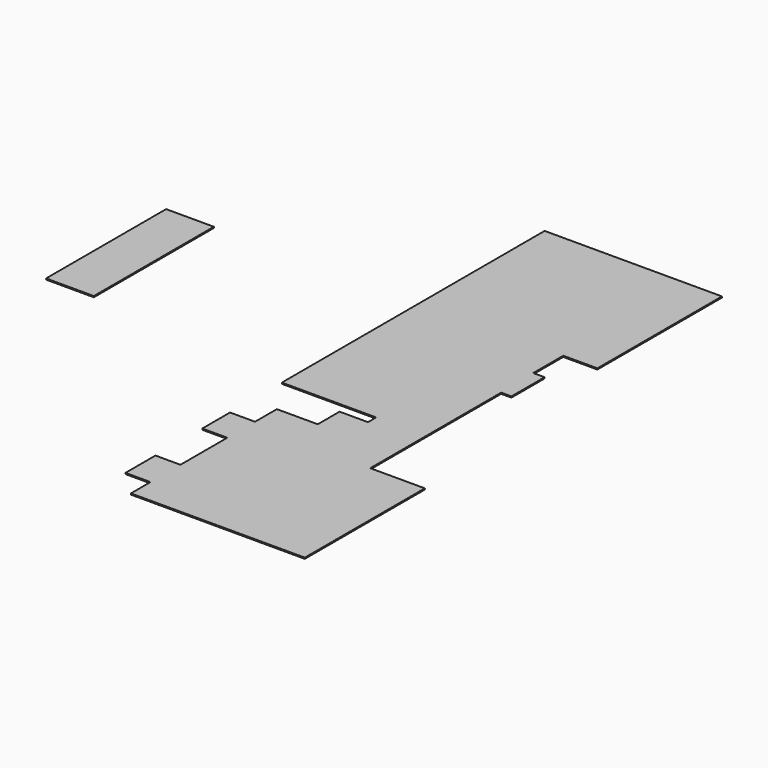
from build123d import *

# Parameters (mm, degrees)
F0_W     = 1066.8
F0_H     = 3352.8
F1_DEPTH = 25.4


with BuildPart() as f1:
    # F0 (on Top) → F1 (new body)
    with BuildSketch(Plane.XY):
        Polygon((3962.4, 0), (0, 0), (0, -7340.6), (2108.2, -7340.6), (2108.2, -7569.2), (1473.2, -7569.2), (1473.2, -8178.8), (558.8, -8178.8), (558.8, -8788.4), (0, -8788.4), (0, -9563.1), (558.8, -9563.1), (558.8, -10871.2), (0, -10871.2), (0, -11709.4), (558.8, -11709.4), (558.8, -12255.5), (4445, -12255.5), (4445, -8902.7), (3225.8, -8902.7), (3225.8, -5245.1), (3454.4, -5245.1), (3454.4, -4318), (3200.4, -4318), (3200.4, -3479.8), (3962.4, -3479.8), align=None)
        with Locations((-5138.827383, -5159.718221)):
            Rectangle(F0_W, F0_H)
    extrude(amount=F1_DEPTH)


solid = f1.part
